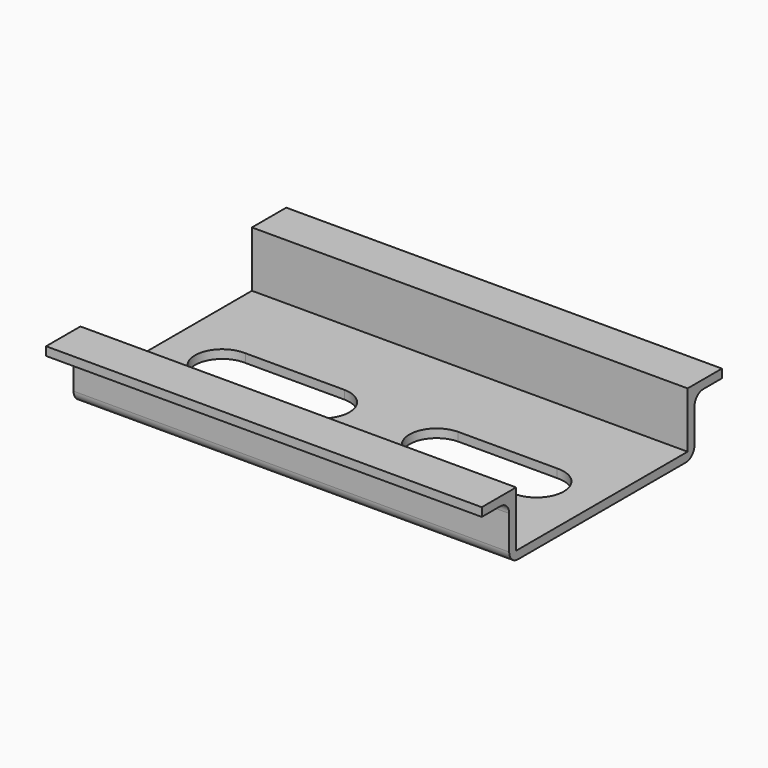
from build123d import *

# Parameters (mm, degrees)
F1_DEPTH = 25.4
F3_DEPTH = 25.4


with BuildPart() as f1:
    # F0 (on Right) → F1 (new body, symmetric)
    with BuildSketch(Plane.YZ):
        with BuildLine():
            Line((-13.893901, 4.882733), (-18.893901, 4.882733))
            Line((-18.893901, 4.882733), (-18.893901, 3.882733))
            Line((-18.893901, 3.882733), (-16.163901, 3.882733))
            ThreePointArc((-16.163901, 3.882733), (-15.265876, 3.510758), (-14.893901, 2.612733))
            Line((-14.893901, 2.612733), (-14.893901, -1.347267))
            ThreePointArc((-14.893901, -1.347267), (-14.521927, -2.245293), (-13.623901, -2.617267))
            Line((-13.623901, -2.617267), (10.836099, -2.617267))
            ThreePointArc((10.836099, -2.617267), (11.734124, -2.245293), (12.106099, -1.347267))
            Line((12.106099, -1.347267), (12.106099, 2.612733))
            ThreePointArc((12.106099, 2.612733), (12.478073, 3.510758), (13.376099, 3.882733))
            Line((13.376099, 3.882733), (16.106099, 3.882733))
            Line((16.106099, 3.882733), (16.106099, 4.882733))
            Line((16.106099, 4.882733), (11.106099, 4.882733))
            Line((11.106099, 4.882733), (11.106099, -1.617267))
            Line((11.106099, -1.617267), (-13.893901, -1.617267))
            Line((-13.893901, -1.617267), (-13.893901, 4.882733))
        make_face()
    extrude(amount=F1_DEPTH, both=True)

    # F2 (on face) → F3 (cut)
    with BuildSketch(Plane.XY.offset(-1.617267)):
        with BuildLine():
            Line((-6.591936, 1.115855), (-18.179136, 1.115855))
            ThreePointArc((-18.179136, 1.115855), (-21.493734, -2.255166), (-17.782748, -5.184145))
            Line((-17.782748, -5.184145), (-7.230164, -5.184145))
            ThreePointArc((-7.230164, -5.184145), (-3.516168, -2.378067), (-6.591936, 1.115855))
        make_face()
        with BuildLine():
            ThreePointArc((17.782748, -5.184145), (21.493734, -2.255166), (18.179136, 1.115855))
            Line((18.179136, 1.115855), (6.591936, 1.115855))
            ThreePointArc((6.591936, 1.115855), (3.516168, -2.378067), (7.230164, -5.184145))
            Line((7.230164, -5.184145), (17.782748, -5.184145))
        make_face()
    extrude(amount=-F3_DEPTH, mode=Mode.SUBTRACT)


solid = f1.part
